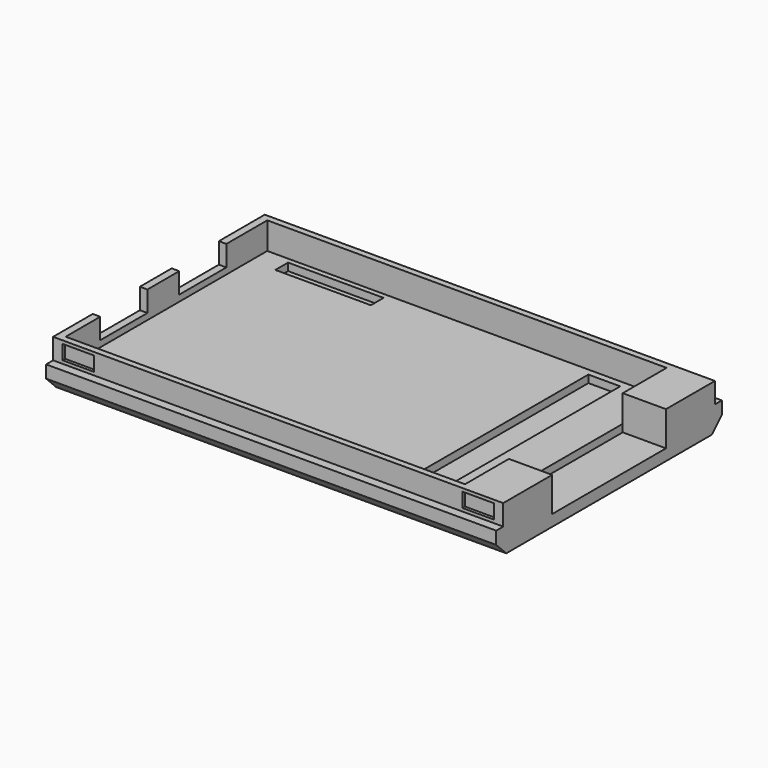
from build123d import *

# Parameters (mm, degrees)
PAD_DEPTH       = 1
SKETCH002_W     = 71.8
SKETCH002_H     = 45
PAD001_DEPTH    = 3
SKETCH003_W     = 6.9
SKETCH003_H     = 22.7
SKETCH003_W_2   = 5.08
SKETCH003_H_2   = 38.099998
SKETCH003_W_3   = 15.24
SKETCH003_H_3   = 2.54
POCKET_DEPTH    = 1.2
SKETCH004_W     = 1.2
SKETCH004_H     = 6.35
PAD002_DEPTH    = 3.3
SKETCH008_W     = 5
SKETCH008_H     = 2.3
POCKET001_DEPTH = 0.5
SKETCH009_W     = 5
SKETCH009_H     = 2.3
POCKET002_DEPTH = 0.5
CHAMFER002_SIZE = 2


with BuildPart() as part:
    # Sketch001 → Pad (new body)
    with BuildSketch(Plane.XY):
        Polygon((-66.6, 20.1), (-66.6, -20.1), (-2.9, -20.1), (-2.9, -11.35), (4, -11.35), (4, -22.5), (-67.8, -22.5), (-67.8, 22.5), (4, 22.5), (4, 11.35), (-2.9, 11.35), (-2.9, 20.1), align=None)
    extrude(amount=PAD_DEPTH)

    # Sketch002 (on Face13 of Pad) → Pad001 (join)
    with BuildSketch(Plane(origin=(0, 0, 0), x_dir=(1, 0, 0), z_dir=(0, 0, -1))):
        with Locations((-31.9, 0)):
            Rectangle(SKETCH002_W, SKETCH002_H)
    extrude(amount=PAD001_DEPTH)

    # Sketch003 (on Face4 of Pad001) → Pocket (cut)
    with BuildSketch(Plane.XY):
        with Locations((0.55, 0)):
            Rectangle(SKETCH003_W, SKETCH003_H)
        with Locations((-12, 0)):
            Rectangle(SKETCH003_W_2, SKETCH003_H_2)
        with Locations((-55, 18)):
            Rectangle(SKETCH003_W_3, SKETCH003_H_3)
        with Locations((-55.5, -18)):
            Rectangle(SKETCH003_W_3, SKETCH003_H_3)
        with Locations((-37, -18)):
            Rectangle(SKETCH003_W_3, SKETCH003_H_3)
    extrude(amount=-POCKET_DEPTH, mode=Mode.SUBTRACT)

    # Sketch004 (on Face5 of Pocket) → Pad002 (join)
    with BuildSketch(Plane.XY.offset(1)):
        with Locations((-67.2, -0.625)):
            Rectangle(SKETCH004_W, SKETCH004_H)
        Polygon((-67.8, 11.95), (-66.6, 11.95), (-66.6, 20.1), (-2.9, 20.1), (-2.9, 11.35), (4, 11.35), (4, 21.1), (-67.8, 21.1), align=None)
        Polygon((-67.8, -13.2), (-66.6, -13.2), (-66.6, -20.1), (-2.9, -20.1), (-2.9, -11.35), (4, -11.35), (4, -21.1), (-67.8, -21.1), align=None)
    extrude(amount=PAD002_DEPTH)

    # Sketch008 (on Face12 of Pad002) → Pocket001 (cut)
    with BuildSketch(Plane(origin=(0, 21.1, 0), x_dir=(-1, 0, 0), z_dir=(0, 1, 0))):
        with Locations((63.8, 2.65)):
            Rectangle(SKETCH008_W, SKETCH008_H)
        with Locations((0, 2.65)):
            Rectangle(SKETCH008_W, SKETCH008_H)
    extrude(amount=-POCKET001_DEPTH, mode=Mode.SUBTRACT)

    # Sketch009 (on Face2 of Pocket001) → Pocket002 (cut)
    with BuildSketch(Plane.XZ.offset(21.1)):
        with Locations((-63.8, 2.65)):
            Rectangle(SKETCH009_W, SKETCH009_H)
        with Locations((0, 2.65)):
            Rectangle(SKETCH009_W, SKETCH009_H)
    extrude(amount=-POCKET002_DEPTH, mode=Mode.SUBTRACT)

    # Chamfer002
    chamfer002_edges = [part.edges().sort_by_distance(p)[0] for p in [
        (-31.9, 22.5, -3),
        (-31.9, -22.5, -3),
    ]]
    chamfer(chamfer002_edges, length=CHAMFER002_SIZE)


solid = part.part
